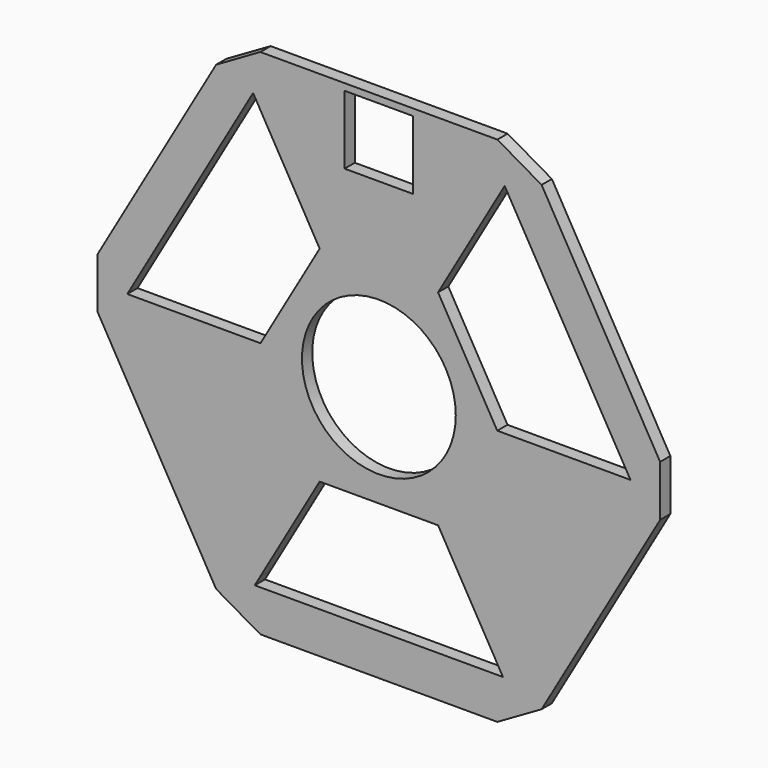
from build123d import *

# Parameters (mm, degrees)
F0_R     = 15.24
F1_DEPTH = 2.54
F2_SIZE  = 5.842


with BuildPart() as f1:
    # F0 (on Front) → F1 (new body)
    with BuildSketch(Plane.XZ):
        Polygon((29.329394, 50.8), (-29.329394, 50.8), (-58.658787, 0), (-29.329394, -50.8), (29.329394, -50.8), (58.658787, 0), align=None)
        Polygon((-30.429246, 42.545), (-27.496307, 47.625), (-21.630428, 47.625), (-6.7945, 47.625), (-6.7945, 49.4665), (6.7945, 49.4665), (6.7945, 47.625), (21.630428, 47.625), (27.496307, 47.625), (30.429246, 42.545), (52.059674, 5.08), (54.992613, 0), (52.059674, -5.08), (30.429246, -42.545), (27.496307, -47.625), (21.630428, -47.625), (-21.630428, -47.625), (-27.496307, -47.625), (-30.429246, -42.545), (-52.059674, -5.08), (-54.992613, 0), (-52.059674, 5.08), align=None, mode=Mode.SUBTRACT)
        Polygon((-6.7945, 47.625), (-21.630428, 47.625), (-30.429246, 42.545), (-52.059674, 5.08), (-52.059674, -5.08), (-30.429246, -42.545), (-21.630428, -47.625), (21.630428, -47.625), (30.429246, -42.545), (52.059674, -5.08), (52.059674, 5.08), (30.429246, 42.545), (21.630428, 47.625), (6.7945, 47.625), (6.7945, 35.8775), (-6.7945, 35.8775), align=None)
        Polygon((-23.463515, 40.64), (-11.731757, 20.32), (11.731757, 20.32), (23.463515, 40.64), (24.929985, 43.18), (49.859969, 0), (46.92703, 0), (23.463515, 0), (11.731757, -20.32), (23.463515, -40.64), (24.596412, -42.602236), (-24.596412, -42.602236), (-23.463515, -40.64), (-11.731757, -20.32), (-23.463515, 0), (-46.92703, 0), (-49.859969, 0), (-24.929985, 43.18), align=None, mode=Mode.SUBTRACT)
        Polygon((54.992613, 0), (52.059674, 5.08), (52.059674, -5.08), align=None)
        Polygon((27.496307, 47.625), (21.630428, 47.625), (30.429246, 42.545), align=None)
        Polygon((-21.630428, 47.625), (-27.496307, 47.625), (-30.429246, 42.545), align=None)
        Polygon((-52.059674, -5.08), (-52.059674, 5.08), (-54.992613, 0), align=None)
        Polygon((-21.630428, -47.625), (-30.429246, -42.545), (-27.496307, -47.625), align=None)
        Polygon((30.429246, -42.545), (21.630428, -47.625), (27.496307, -47.625), align=None)
        Polygon((11.731757, 20.32), (-11.731757, 20.32), (-23.463515, 0), (-11.731757, -20.32), (11.731757, -20.32), (23.463515, 0), align=None)
        Circle(F0_R, mode=Mode.SUBTRACT)
    extrude(amount=F1_DEPTH)

    # F2
    f2_edges = [f1.edges().sort_by_distance(p)[0] for p in [
        (-29.329394, -1.27, 50.8),
        (29.329394, -1.27, 50.8),
        (58.658787, -1.27, 0),
        (-58.658787, -1.27, 0),
        (-29.329394, -1.27, -50.8),
        (29.329394, -1.27, -50.8),
    ]]
    chamfer(f2_edges, length=F2_SIZE)


solid = f1.part
